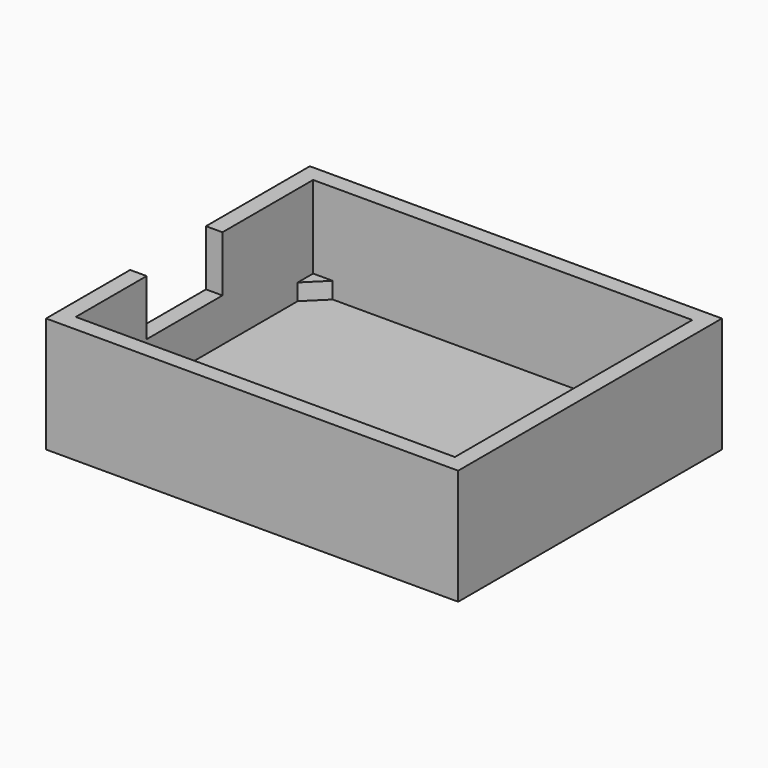
from build123d import *

# Parameters (mm, degrees)
F1_DEPTH = 2
F2_DEPTH = 4
F0_W     = 50
F0_H     = 40
F3_DEPTH = 14
F4_W     = 11.5
F4_H     = 6.75
F5_DEPTH = 25


with BuildPart() as f1:
    # F0 (on Top) → F1 (new body)
    with BuildSketch(Plane.XY):
        Polygon((29.023395, 27.884433), (26.64808, 30.228337), (-14.601289, 30.228337), (-16.976605, 27.884433), (-16.976605, -3.427759), (-14.601289, -5.771663), (26.64808, -5.771663), (29.023395, -3.427759), align=None)
    extrude(amount=F1_DEPTH)

    # F0 (on Top) → F2 (join)
    with BuildSketch(Plane.XY):
        Polygon((-14.601289, -5.771663), (-16.976605, -3.427759), (-16.976605, -5.771663), align=None)
        Polygon((29.023395, -5.771663), (29.023395, -3.427759), (26.64808, -5.771663), align=None)
        Polygon((-16.976605, 27.884433), (-14.601289, 30.228337), (-16.976605, 30.228337), align=None)
        Polygon((29.023395, 27.884433), (29.023395, 30.228337), (26.64808, 30.228337), align=None)
    extrude(amount=F2_DEPTH)

    # F0 (on Top) → F3 (join)
    with BuildSketch(Plane.XY):
        with Locations((6.023395, 12.228337)):
            Rectangle(F0_W, F0_H)
        Polygon((26.64808, 30.228337), (29.023395, 30.228337), (29.023395, 27.884433), (29.023395, -3.427759), (29.023395, -5.771663), (26.64808, -5.771663), (-14.601289, -5.771663), (-16.976605, -5.771663), (-16.976605, -3.427759), (-16.976605, 27.884433), (-16.976605, 30.228337), (-14.601289, 30.228337), align=None, mode=Mode.SUBTRACT)
    extrude(amount=F3_DEPTH)

    # F4 (on face) → F5 (cut)
    with BuildSketch(Plane(origin=(-18.976605, 0, 0), x_dir=(0, -1, 0), z_dir=(-1, 0, 0))):
        with Locations((-10.728337, 10.625)):
            Rectangle(F4_W, F4_H)
    extrude(amount=-F5_DEPTH, mode=Mode.SUBTRACT)


solid = f1.part
